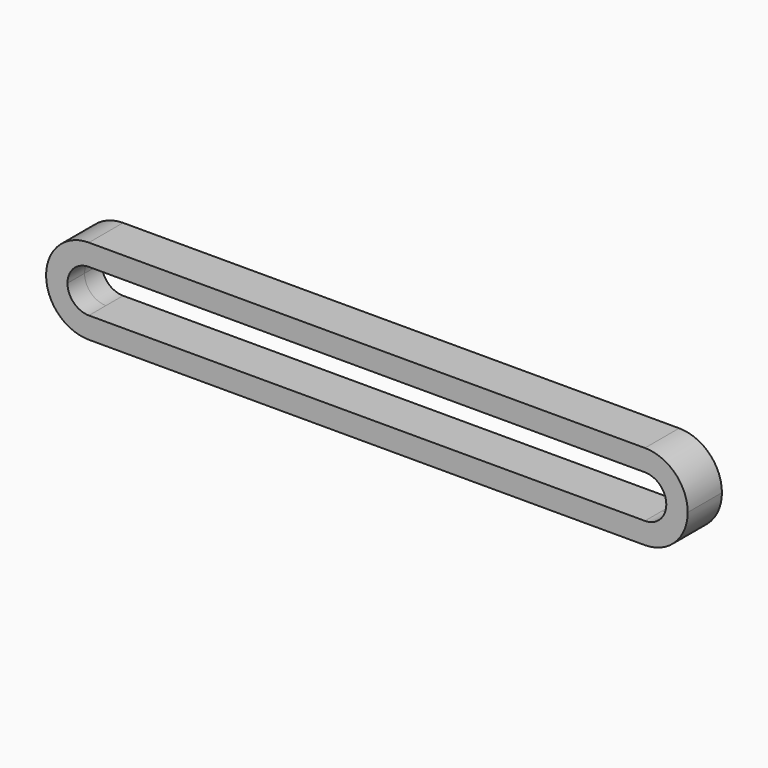
from build123d import *

# Parameters (mm, degrees)
F1_DEPTH = 5
F2_T     = -2.5
F3_DEPTH = 25


with BuildPart() as f1:
    # F0 (on Front) → F1 (new body)
    with BuildSketch(Plane.XZ):
        with BuildLine():
            Line((-32.5, -5), (32.5, -5))
            ThreePointArc((32.5, -5), (36.0355339059, -3.5355339059), (37.5, 0))
            ThreePointArc((37.5, 0), (36.0355339059, 3.5355339059), (32.5, 5))
            Line((32.5, 5), (-32.5, 5))
            ThreePointArc((-32.5, 5), (-36.0355339059, 3.5355339059), (-37.5, 0))
            ThreePointArc((-37.5, 0), (-36.0355339059, -3.5355339059), (-32.5, -5))
        make_face()
    extrude(amount=F1_DEPTH)

    # F2
    f2_openings = [f1.faces().sort_by_distance(p)[0] for p in [
        (0, -5, 0),
    ]]
    offset(amount=F2_T, openings=f2_openings)

    # F3 (cut): a face of the model
    f3_faces = [f1.faces().sort_by_distance(p)[0] for p in [
        (0, -2.5, 0),
    ]]
    extrude(f3_faces, amount=-F3_DEPTH, mode=Mode.SUBTRACT)


solid = f1.part
